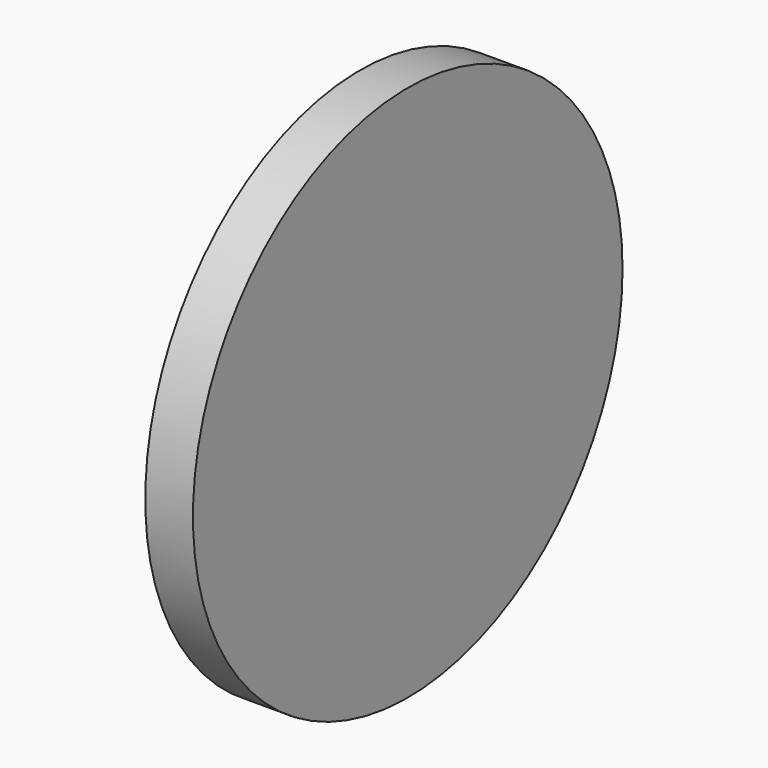
from build123d import *

# Parameters (mm, degrees)
F0_R     = 11.25
F1_DEPTH = 2
F3_DEPTH = 1


with BuildPart() as f1:
    # F0 (on Right) → F1 (new body)
    with BuildSketch(Plane.YZ):
        Circle(F0_R)
    extrude(amount=F1_DEPTH)

    # F2 (on face) → F3 (cut)
    with BuildSketch(Plane(origin=(0, 0, 0), x_dir=(0, -1, 0), z_dir=(-1, 0, 0))):
        with BuildLine():
            Line((-9.75, 0), (-8.25, 0))
            Line((-8.25, 0), (-6.75, 0))
            ThreePointArc((-6.75, 0), (-8.25, 1.5), (-9.75, 0))
        make_face()
        with BuildLine():
            Line((-6.75, 0), (-8.25, 0))
            Line((-8.25, 0), (-9.75, 0))
            ThreePointArc((-9.75, 0), (-8.25, -1.5), (-6.75, 0))
        make_face()
        with BuildLine():
            ThreePointArc((9.75, 0), (8.25, 1.5), (6.75, 0))
            Line((6.75, 0), (8.25, 0))
            Line((8.25, 0), (9.75, 0))
        make_face()
        with BuildLine():
            Line((8.25, 0), (6.75, 0))
            ThreePointArc((6.75, 0), (8.25, -1.5), (9.75, 0))
            Line((9.75, 0), (8.25, 0))
        make_face()
    extrude(amount=-F3_DEPTH, mode=Mode.SUBTRACT)


solid = f1.part
